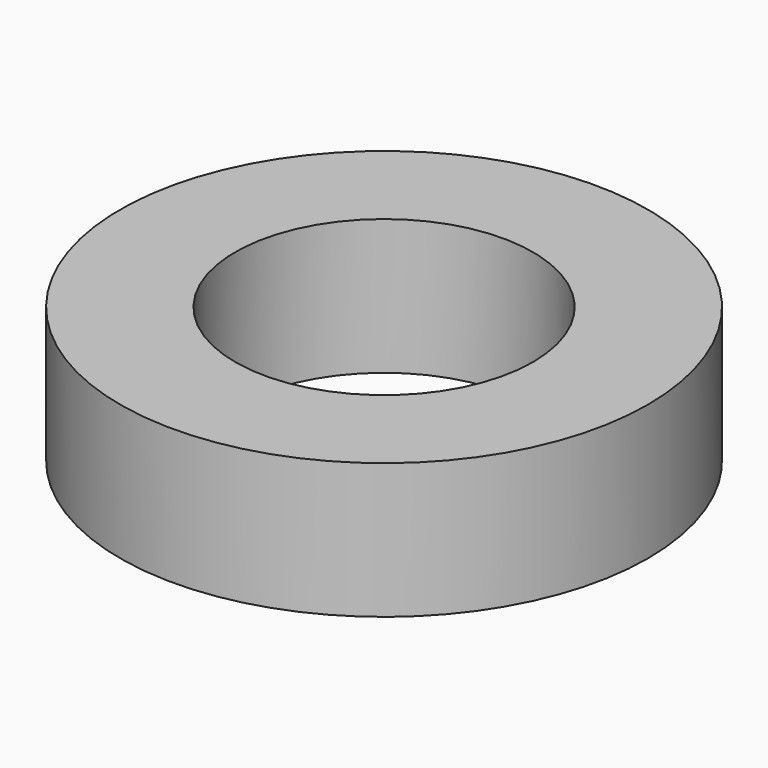
from build123d import *

# Parameters (mm, degrees)
F0_R        = 49.53
F0_R_2      = 8.509
F0_R_3      = 27.94
F1_DEPTH    = 25.4
F1_FACE_R   = 49.53
F1_FACE_R_2 = 27.94
F2_DEPTH    = 10.16


with BuildPart() as f1:
    # F0 (on Top) → F1 (new body)
    with BuildSketch(Plane.XY):
        Circle(F0_R)
        with Locations((-32.9955678842, -19.05)):
            Circle(F0_R_2, mode=Mode.SUBTRACT)
        Circle(F0_R_3, mode=Mode.SUBTRACT)
        with Locations((32.9955678842, -19.05)):
            Circle(F0_R_2, mode=Mode.SUBTRACT)
        with Locations((0.0215684675, 38.0999937206)):
            Circle(F0_R_2, mode=Mode.SUBTRACT)
        with Locations((0.0215684675, 38.0999937206)):
            Circle(F0_R_2)
        with Locations((-32.9955678842, -19.05)):
            Circle(F0_R_2)
        with Locations((32.9955678842, -19.05)):
            Circle(F0_R_2)
    extrude(amount=F1_DEPTH)

    # F1_face (on face) + F0 (on Top) → F2 (cut)
    with BuildSketch(Plane.XY.offset(25.4)):
        Circle(F1_FACE_R)
        Circle(F1_FACE_R_2, mode=Mode.SUBTRACT)
    with BuildSketch(Plane.XY):
        with Locations((0.0215684675, 38.0999937206)):
            Circle(F0_R_2)
        with Locations((-32.9955678842, -19.05)):
            Circle(F0_R_2)
        with Locations((32.9955678842, -19.05)):
            Circle(F0_R_2)
    extrude(amount=F2_DEPTH, mode=Mode.SUBTRACT)


solid = f1.part
